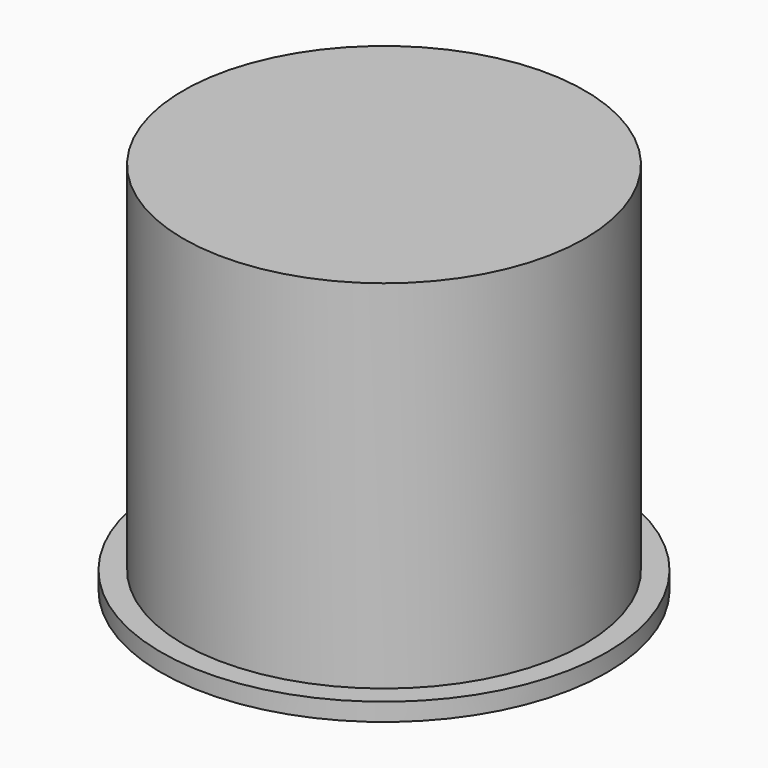
from build123d import *

# Parameters (mm, degrees)
F0_R     = 11.25
F1_DEPTH = 21
F0_R_2   = 12.5
F2_DEPTH = 1
F3_R     = 6.5
F4_DEPTH = 19


with BuildPart() as f1:
    # F0 (on Top) → F1 (new body)
    with BuildSketch(Plane.XY):
        Circle(F0_R)
    extrude(amount=F1_DEPTH)

    # F0 (on Top) → F2 (join)
    with BuildSketch(Plane.XY):
        Circle(F0_R_2)
        Circle(F0_R, mode=Mode.SUBTRACT)
    extrude(amount=F2_DEPTH)

    # F3 (on face) → F4 (cut)
    with BuildSketch(Plane(origin=(0, 0, 0), x_dir=(1, 0, 0), z_dir=(0, 0, -1))):
        Circle(F3_R)
    extrude(amount=-F4_DEPTH, mode=Mode.SUBTRACT)


solid = f1.part
